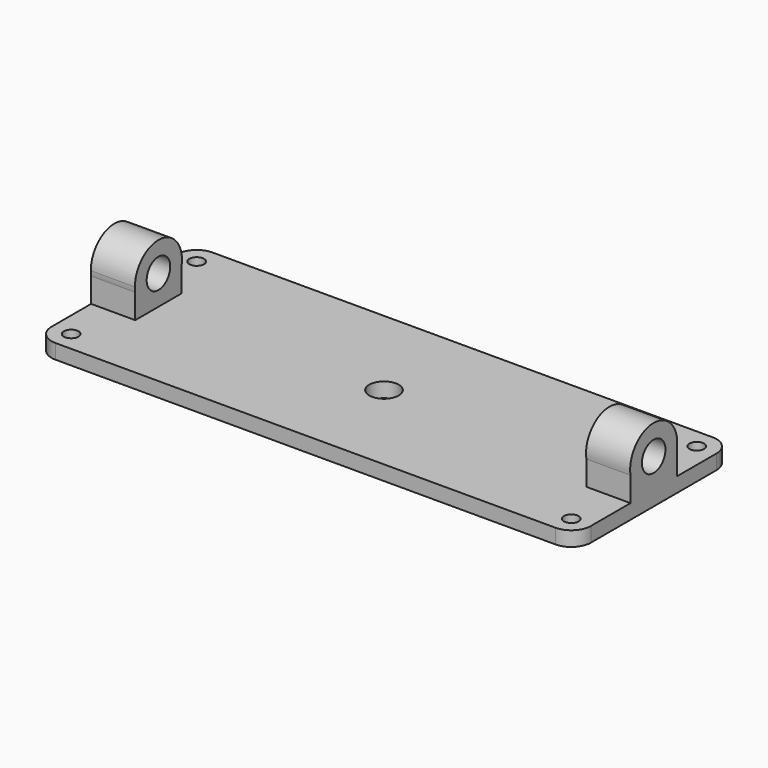
from build123d import *

# Parameters (mm, degrees)
F0_R     = 9.525
F1_DEPTH = 19.05
F3_DEPTH = 57.15
F5_DEPTH = 57.15


with BuildPart() as f1:
    # F0 (on Top) → F1 (new body)
    with BuildSketch(Plane.XY):
        with BuildLine():
            Line((349.25, 0), (19.05, 0))
            ThreePointArc((19.05, 0), (-13.4703841816, -13.4703841816), (0, 19.05))
            Line((0, 19.05), (0, 127))
            Line((0, 127), (-323.85, 127))
            ThreePointArc((-323.85, 127), (-341.8105122421, 119.5605122421), (-349.25, 101.6))
            Line((-349.25, 101.6), (-349.25, -101.6))
            ThreePointArc((-349.25, -101.6), (-341.8105122421, -119.5605122421), (-323.85, -127))
            Line((-323.85, -127), (323.85, -127))
            ThreePointArc((323.85, -127), (341.8105122421, -119.5605122421), (349.25, -101.6))
            Line((349.25, -101.6), (349.25, 0))
        make_face()
        with Locations((-323.85, -101.6)):
            Circle(F0_R, mode=Mode.SUBTRACT)
        with Locations((323.85, -101.6)):
            Circle(F0_R, mode=Mode.SUBTRACT)
        with Locations((-323.85, 101.6)):
            Circle(F0_R, mode=Mode.SUBTRACT)
        with BuildLine():
            ThreePointArc((0, 19.05), (13.4703841816, 13.4703841816), (19.05, 0))
            Line((19.05, 0), (349.25, 0))
            Line((349.25, 0), (349.25, 101.6))
            ThreePointArc((349.25, 101.6), (341.8105122421, 119.5605122421), (323.85, 127))
            Line((323.85, 127), (0, 127))
            Line((0, 127), (0, 19.05))
        make_face()
        with Locations((323.85, 101.6)):
            Circle(F0_R, mode=Mode.SUBTRACT)
    extrude(amount=-F1_DEPTH)

    # F2 (on face) → F3 (join)
    with BuildSketch(Plane(origin=(-349.25, 0, 0), x_dir=(0, -1, 0), z_dir=(-1, 0, 0))):
        with BuildLine():
            ThreePointArc((-37.5671066227, 31.75), (-24.5934442418, 9.0006443314), (1.73e-08, 0))
            ThreePointArc((1.73e-08, 0), (24.593444255, 9.0006443426), (37.5671066227, 31.75))
            ThreePointArc((37.5671066227, 31.75), (37.9665429182, 34.9138394833), (38.1, 38.1))
            ThreePointArc((38.1, 38.1), (-3.1861605167, 76.0665429182), (-37.5671066227, 31.75))
        make_face()
        with BuildLine():
            ThreePointArc((19.05, 38.1), (13.4703841816, 24.6296158184), (0, 19.05))
            ThreePointArc((0, 19.05), (-13.4703841816, 51.5703841816), (19.05, 38.1))
        make_face(mode=Mode.SUBTRACT)
        with BuildLine():
            Line((-37.5671066227, 0), (1.73e-08, 0))
            ThreePointArc((1.73e-08, 0), (-24.5934442418, 9.0006443314), (-37.5671066227, 31.75))
            Line((-37.5671066227, 31.75), (-37.5671066227, 0))
        make_face()
        with BuildLine():
            ThreePointArc((37.5671066227, 31.75), (24.593444255, 9.0006443426), (1.73e-08, 0))
            Line((1.73e-08, 0), (37.5671066227, 0))
            Line((37.5671066227, 0), (37.5671066227, 31.75))
        make_face()
    extrude(amount=-F3_DEPTH)

    # F4 (on face) → F5 (join)
    with BuildSketch(Plane.YZ.offset(349.25)):
        with BuildLine():
            ThreePointArc((37.5671066227, 31.75), (24.593444255, 9.0006443426), (1.73e-08, 0))
            Line((1.73e-08, 0), (37.5671066227, 0))
            Line((37.5671066227, 0), (37.5671066227, 31.75))
        make_face()
        with BuildLine():
            ThreePointArc((-37.5671066227, 31.75), (-24.5934442418, 9.0006443314), (1.73e-08, 0))
            ThreePointArc((1.73e-08, 0), (24.593444255, 9.0006443426), (37.5671066227, 31.75))
            ThreePointArc((37.5671066227, 31.75), (37.9665429182, 34.9138394833), (38.1, 38.1))
            ThreePointArc((38.1, 38.1), (-3.1861605167, 76.0665429182), (-37.5671066227, 31.75))
        make_face()
        with BuildLine():
            ThreePointArc((19.05, 38.1), (13.4703841816, 24.6296158184), (0, 19.05))
            ThreePointArc((0, 19.05), (-13.4703841816, 51.5703841816), (19.05, 38.1))
        make_face(mode=Mode.SUBTRACT)
        with BuildLine():
            Line((-37.5671066227, 0), (1.73e-08, 0))
            ThreePointArc((1.73e-08, 0), (-24.5934442418, 9.0006443314), (-37.5671066227, 31.75))
            Line((-37.5671066227, 31.75), (-37.5671066227, 0))
        make_face()
    extrude(amount=-F5_DEPTH)


solid = f1.part
